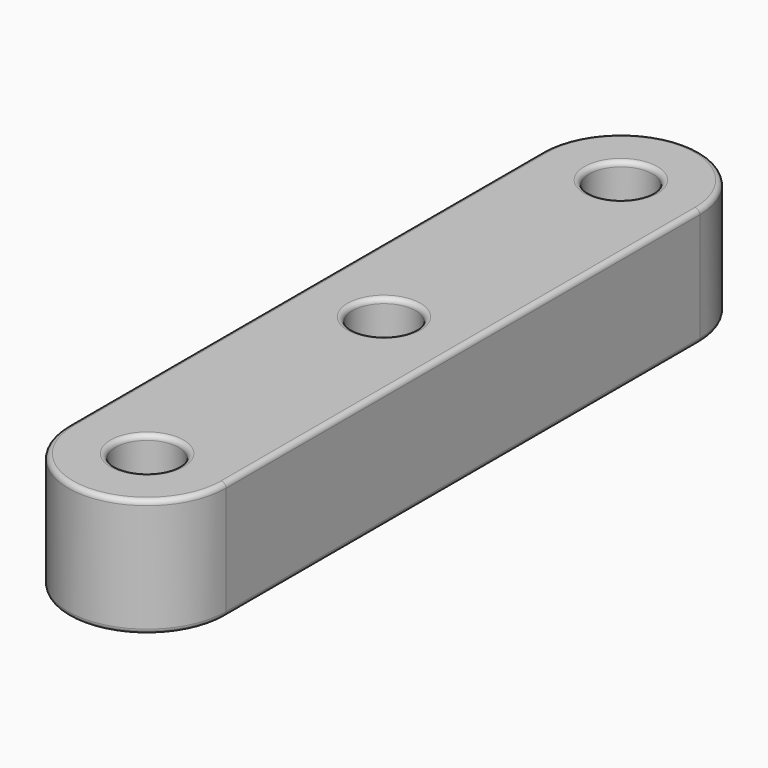
from build123d import *

# Parameters (mm, degrees)
PAD_DEPTH                          = 6
SKETCH001_R                        = 1.6
POCKET_DEPTH                       = 6
SKETCH002_R                        = 3.1
POCKET001_DEPTH                    = 2
SKETCH001_LINEARPATTERN_2_R        = 1.6
POCKET_LINEARPATTERN_2_DEPTH       = 6
SKETCH002_LINEARPATTERN001_2_R     = 3.1
POCKET001_LINEARPATTERN001_2_DEPTH = 2
FILLET_R                           = 0.25


with BuildPart() as part:
    # Sketch → Pad (new body)
    with BuildSketch(Plane.XY):
        with BuildLine():
            Line((0, 15), (0, -15))
            ThreePointArc((0, -15), (4, -19), (8, -15))
            Line((8, 15), (8, -15))
            ThreePointArc((8, 15), (4, 19), (0, 15))
        make_face()
    extrude(amount=PAD_DEPTH)

    # Sketch001 → Pocket (cut)
    with BuildSketch(Plane.XY):
        with Locations((4, 0)):
            Circle(SKETCH001_R)
    pocket = extrude(amount=POCKET_DEPTH, mode=Mode.SUBTRACT)

    # Sketch002 → Pocket001 (cut)
    with BuildSketch(Plane.XY):
        with Locations((4, 0)):
            Circle(SKETCH002_R)
    pocket001 = extrude(amount=POCKET001_DEPTH, mode=Mode.SUBTRACT)

    # Sketch001 LinearPattern 2 → Pocket LinearPattern 2 (cut)
    with BuildSketch(Plane(origin=(0, 15, 0), x_dir=(1, 0, 0), z_dir=(0, 0, 1))):
        with Locations((4, 0)):
            Circle(SKETCH001_LINEARPATTERN_2_R)
    pocket_linearpattern_2 = extrude(amount=POCKET_LINEARPATTERN_2_DEPTH, mode=Mode.SUBTRACT)

    # Mirrored: Pocket, Pocket LinearPattern 2 across Sketch001 H_Axis
    add(pocket.mirror(Plane.ZX), mode=Mode.SUBTRACT)
    add(pocket_linearpattern_2.mirror(Plane.ZX), mode=Mode.SUBTRACT)

    # Sketch002 LinearPattern001 2 → Pocket001 LinearPattern001 2 (cut)
    with BuildSketch(Plane(origin=(0, 15, 0), x_dir=(1, 0, 0), z_dir=(0, 0, 1))):
        with Locations((4, 0)):
            Circle(SKETCH002_LINEARPATTERN001_2_R)
    pocket001_linearpattern001_2 = extrude(amount=POCKET001_LINEARPATTERN001_2_DEPTH, mode=Mode.SUBTRACT)

    # Mirrored001: Pocket001, Pocket001 LinearPattern001 2 across Sketch002 H_Axis
    add(pocket001.mirror(Plane.ZX), mode=Mode.SUBTRACT)
    add(pocket001_linearpattern001_2.mirror(Plane.ZX), mode=Mode.SUBTRACT)

    # Fillet
    fillet_edges = [part.edges().sort_by_distance(p)[0] for p in [
        (4, 19, 0),
        (0, 0, 0),
        (8, 0, 0),
        (4, -19, 0),
        (4, -19, 6),
        (0, 0, 6),
        (4, 19, 6),
        (8, 0, 6),
        (2.4, 15, 6),
        (2.4, 0, 6),
        (2.4, -15, 6),
        (2.4, -15, 2),
        (0.9, -15, 0),
        (0.9, 0, 0),
        (2.4, 0, 2),
        (0.9, 15, 0),
        (2.4, 15, 2),
    ]]
    fillet(fillet_edges, radius=FILLET_R)


solid = part.part
